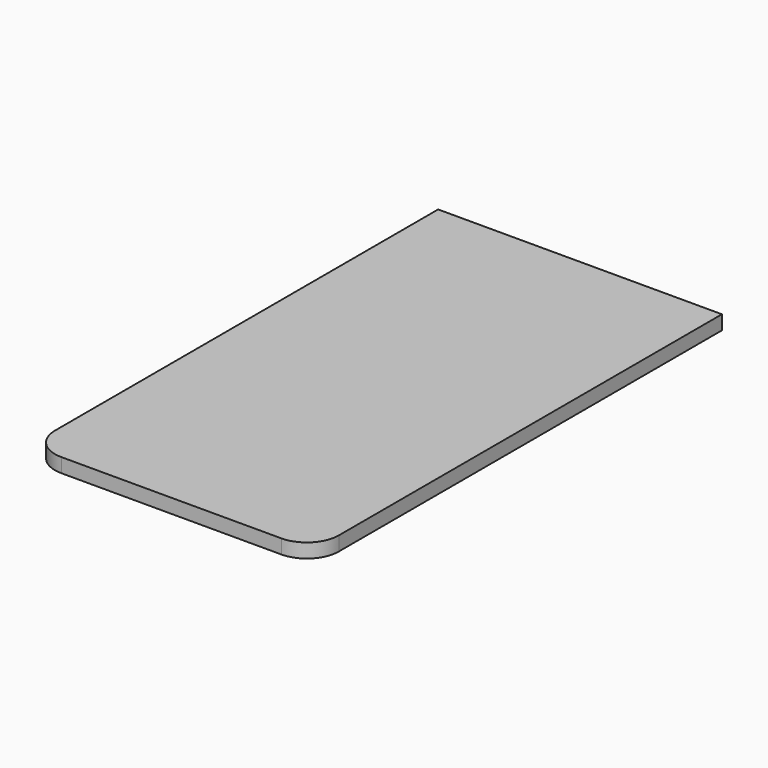
from build123d import *

# Parameters (mm, degrees)
EXTRUDE_DEPTH = 2


with BuildPart() as illuminationlidcut:
    # Clone2D → Extrude (new body)
    with BuildSketch(Plane.XY):
        with BuildLine():
            Line((15.5, -19), (0, -19))
            Line((0, -19), (0, 53))
            Line((0, 53), (20, 53))
            Line((20, 53), (20, -14.5))
            ThreePointArc((20, -14.5), (18.681981, -17.681981), (15.5, -19))
        make_face()
    extrude(amount=EXTRUDE_DEPTH)


with BuildPart() as part_mirroring023004:
    # Part__Mirroring023004: instance of IlluminationLidCut
    add(illuminationlidcut.part.mirror(Plane(origin=(0, 0, 0), x_dir=(0, -1, 0), z_dir=(1, 0, 0))))


with BuildPart() as illuminationlidcut001:
    # Fusion004 base: copy of IlluminationLidCut
    add(illuminationlidcut.part)

    # Fusion004: union Part__Mirroring023004
    add(part_mirroring023004.part)


solid = illuminationlidcut001.part
